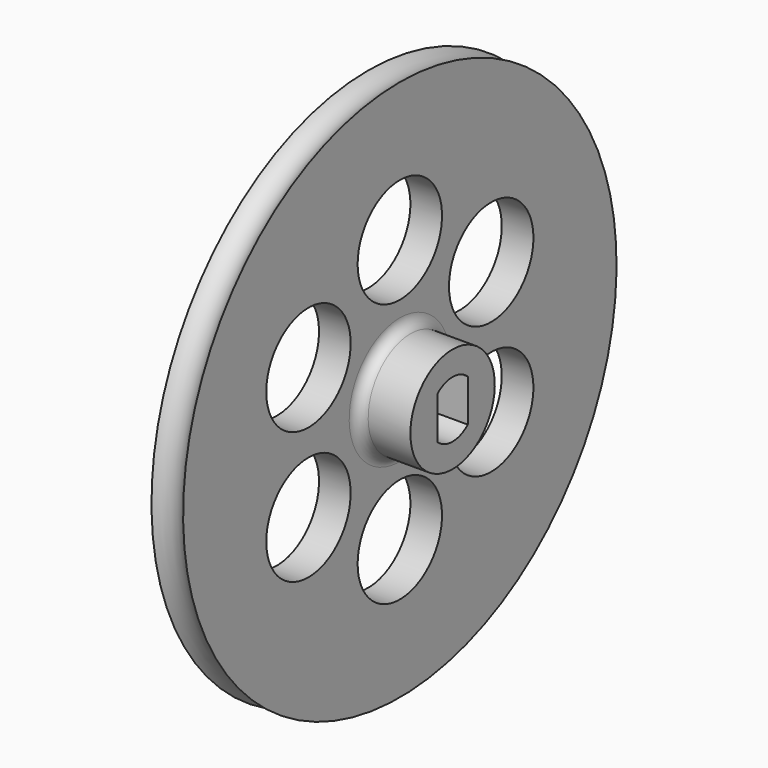
from build123d import *

# Parameters (mm, degrees)
F1_FACE1_R = 25.6771243445
F3_DEPTH   = 8
F4_R       = 5
F5_DEPTH   = 3


with BuildPart() as f1:
    # F0 (on Front) → F1 (revolve)
    with BuildSketch(Plane.XZ):
        with BuildLine():
            Line((0, 25.6771243445), (0, 0))
            Line((0, 0), (3, 0))
            Line((3, 0), (8, 0))
            Line((8, 0), (8, 5))
            Line((8, 5), (4, 5))
            ThreePointArc((4, 5), (3.2928932188, 5.2928932188), (3, 6))
            Line((3, 6), (3, 25.6771243445))
            ThreePointArc((3, 25.6771243445), (1.5, 25), (0, 25.6771243445))
        make_face()
    revolve(axis=Axis((1.5, 0, 0), (-1, 0, 0)))

    # F2 (on face) + F1_face1 (on face) → F3 (cut)
    with BuildSketch(Plane.YZ.offset(8)):
        with BuildLine():
            Line((-1.8, 2.0124611797), (-1.8, -2.0124611797))
            ThreePointArc((-1.8, -2.0124611797), (0, -2.7), (1.8, -2.0124611797))
            Line((1.8, -2.0124611797), (1.8, 2.0124611797))
            ThreePointArc((1.8, 2.0124611797), (0, 2.7), (-1.8, 2.0124611797))
        make_face()
    with BuildSketch(Plane(origin=(0, 0, 0), x_dir=(0, -1, 0), z_dir=(-1, 0, 0))):
        Circle(F1_FACE1_R)
    extrude(amount=-F3_DEPTH, dir=(1, 0, 0), mode=Mode.SUBTRACT)

    # F4 (on face) → F5 (cut, through all)
    with BuildSketch(Plane(origin=(0, 0, 0), x_dir=(0, -1, 0), z_dir=(-1, 0, 0))):
        with Locations((0, 12.5)):
            Circle(F4_R)
        with Locations((10.8253175473, 6.25)):
            Circle(F4_R)
        with Locations((10.8253175473, -6.25)):
            Circle(F4_R)
        with Locations((0, -12.5)):
            Circle(F4_R)
        with Locations((-10.8253175473, -6.25)):
            Circle(F4_R)
        with Locations((-10.8253175473, 6.25)):
            Circle(F4_R)
    extrude(amount=-F5_DEPTH, mode=Mode.SUBTRACT)


solid = f1.part
